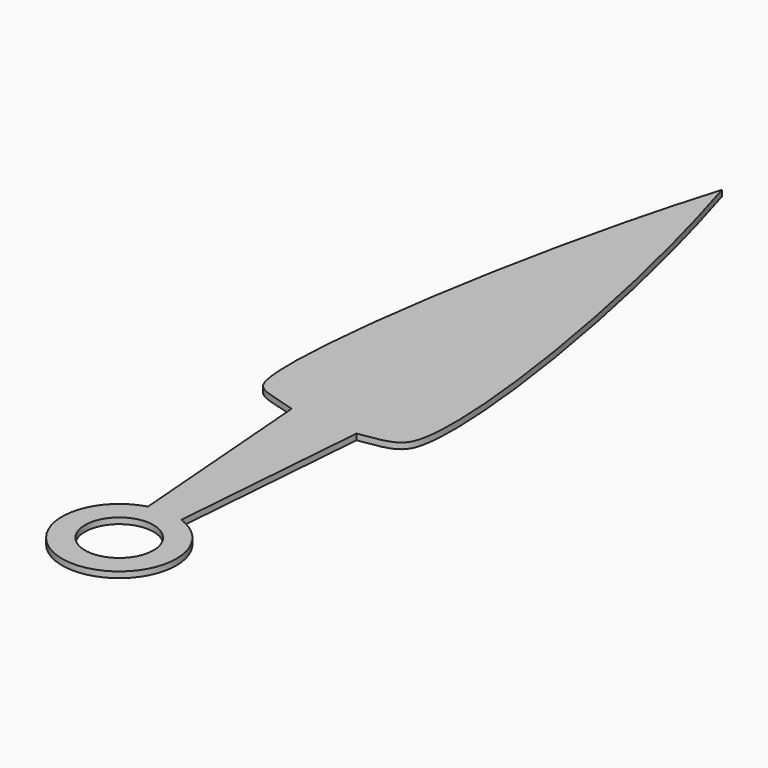
from build123d import *

# Parameters (mm, degrees)
F1_R     = 9.525
F2_DEPTH = 1.651


with BuildPart() as f2:
    # F1 (on face) → F2 (new body)
    with BuildSketch(Plane.XY):
        with BuildLine():
            Line((-38.8934114652, 50.5533661939), (-34.5240494368, -4.8370669306))
            ThreePointArc((-34.5240494368, -4.8370669306), (-30.7909602464, -35.9960824116), (-24.9990494368, -5.1533528012))
            Line((-24.9990494368, -5.1533528012), (-20.6371614652, 50.2376693917))
            add(Edge.make_bspline(
                [(-20.6371614652, 50.2376693917), (-11.6891823709, 51.4712668955), (-1.2881990739, 54.299325546), (-14.0751041472, 136.7586106062), (-30.2641075104, 189.1969317272)],
                knots=[0, 0, 0, 0, 0.2500838881, 1, 1, 1, 1], degree=3))
            add(Edge.make_bspline(
                [(-38.8934114652, 50.5533661939), (-48.0458810925, 53.4221157432), (-57.8365038002, 51.4697467257), (-46.1788401008, 136.7586106062), (-30.2641075104, 189.1969317272)],
                knots=[0, 0, 0, 0, 0.2491815929, 1, 1, 1, 1], degree=3))
        make_face()
        with Locations((-30.2641075104, -20.1298273022)):
            Circle(F1_R, mode=Mode.SUBTRACT)
    extrude(amount=F2_DEPTH)


solid = f2.part
